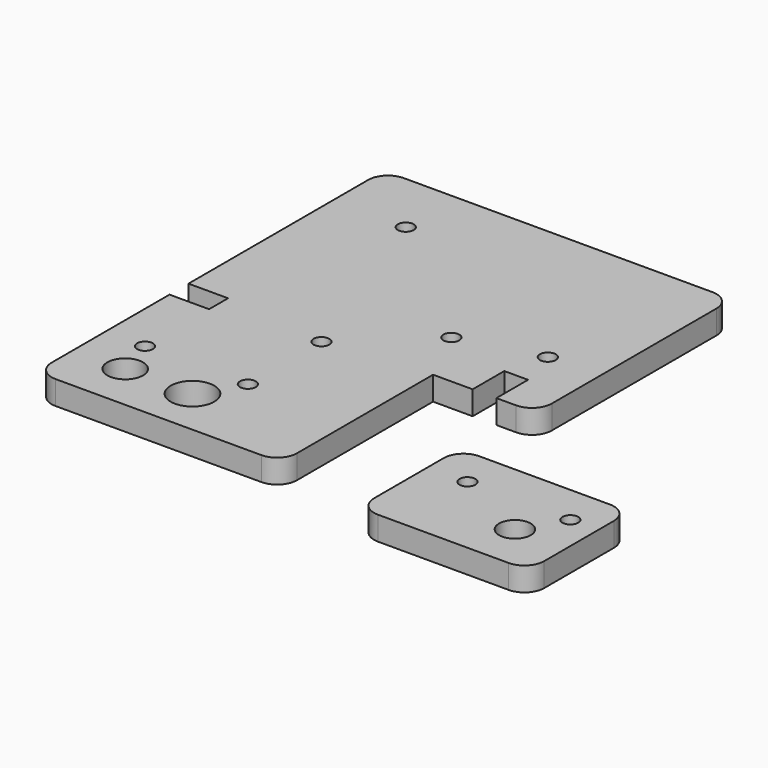
from build123d import *

# Parameters (mm, degrees)
F0_W      = 26
F0_H      = 62
F1_DEPTH  = 6
F2_W      = 10
F2_H      = 6
F2_W_2    = 6
F2_H_2    = 10
F3_DEPTH  = 25
F4_R      = 4.5
F4_R_2    = 5.5
F4_R_3    = 2
F5_DEPTH  = 25
F6_R      = 5
F7_R      = 2
F8_DEPTH  = 25
F9_W      = 43
F9_H      = 32
F10_DEPTH = 6
F11_R     = 2
F11_R_2   = 4
F12_DEPTH = 25
F13_R     = 5
F14_R     = 2
F15_DEPTH = 25


with BuildPart() as f1:
    # F0 (on Top) → F1 (new body)
    with BuildSketch(Plane.XY):
        Polygon((-65.407285, -48.239041), (-3.407285, -48.239041), (-3.407285, -0.239041), (-3.407285, 61.760959), (-65.407285, 61.760959), align=None)
        with Locations((9.592715, 30.760959)):
            Rectangle(F0_W, F0_H)
    extrude(amount=F1_DEPTH)

    # F2 (on face) → F3 (cut)
    with BuildSketch(Plane.XY.offset(6)):
        with Locations((-60.407285, -3)):
            Rectangle(F2_W, F2_H)
        with Locations((9.592715, 4.760959)):
            Rectangle(F2_W_2, F2_H_2)
    extrude(amount=-F3_DEPTH, mode=Mode.SUBTRACT)

    # F4 (on face) → F5 (cut)
    with BuildSketch(Plane.XY.offset(6)):
        with Locations((-52.407285, -36.239041)):
            Circle(F4_R)
        with Locations((-35.407285, -36.239041)):
            Circle(F4_R_2)
        with Locations((-29.407285, -3)):
            Circle(F4_R_3)
        with Locations((9.592715, 19.760959)):
            Circle(F4_R_3)
    extrude(amount=-F5_DEPTH, mode=Mode.SUBTRACT)

    # F6
    f6_edges = [f1.edges().sort_by_distance(p)[0] for p in [
        (-65.407285, -48.239041, 3),
        (-3.407285, -48.239041, 3),
        (22.592715, -0.239041, 3),
        (22.592715, 61.760959, 3),
        (-65.407285, 61.760959, 3),
    ]]
    fillet(f6_edges, radius=F6_R)

    # F7 (on face) → F8 (cut)
    with BuildSketch(Plane.XY.offset(6)):
        with Locations((-55.407285, -26.239041)):
            Circle(F7_R)
        with Locations((-29.407285, -26.239041)):
            Circle(F7_R)
    extrude(amount=-F8_DEPTH, mode=Mode.SUBTRACT)

    # F14 (on face) → F15 (cut)
    with BuildSketch(Plane.XY.offset(6)):
        with Locations((-47.006437, 45.636379)):
            Circle(F14_R)
        with Locations((-10.528787, 14.437323)):
            Circle(F14_R)
    extrude(amount=-F15_DEPTH, mode=Mode.SUBTRACT)


with BuildPart() as f10:
    # F9 (on Top) → F10 (new body)
    with BuildSketch(Plane.XY):
        with Locations((41.987561, -37.74626)):
            Rectangle(F9_W, F9_H)
    extrude(amount=F10_DEPTH)

    # F11 (on face) → F12 (cut)
    with BuildSketch(Plane.XY.offset(6)):
        with Locations((30.487561, -31.74626)):
            Circle(F11_R)
        with Locations((50.487561, -41.74626)):
            Circle(F11_R_2)
        with Locations((56.487561, -31.74626)):
            Circle(F11_R)
    extrude(amount=-F12_DEPTH, mode=Mode.SUBTRACT)

    # F13
    f13_edges = [f10.edges().sort_by_distance(p)[0] for p in [
        (20.487561, -53.74626, 3),
        (63.487561, -53.74626, 3),
        (63.487561, -21.74626, 3),
        (20.487561, -21.74626, 3),
    ]]
    fillet(f13_edges, radius=F13_R)


solid = Compound([f1.part, f10.part])
